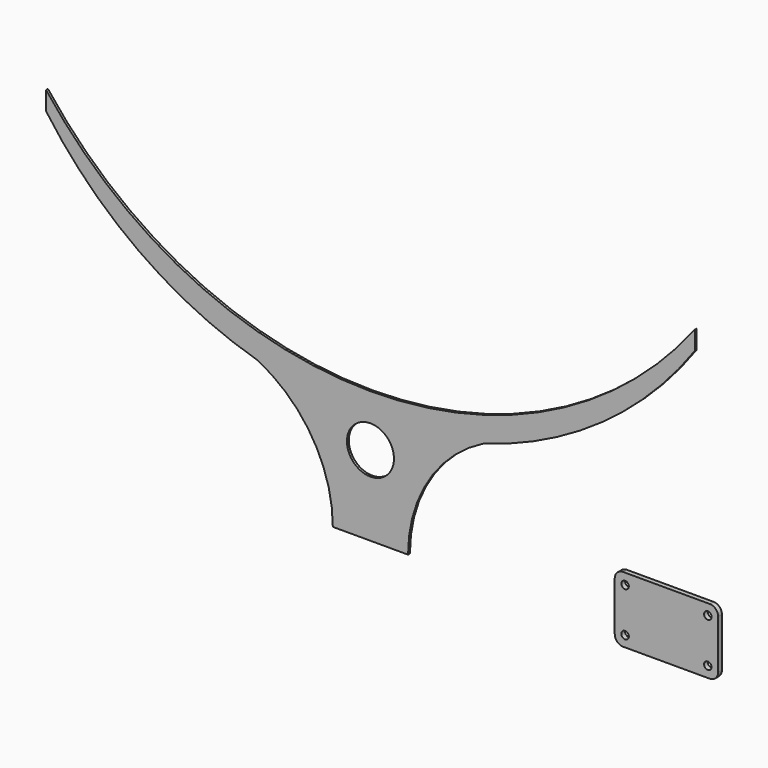
from build123d import *

# Parameters (mm, degrees)
F0_W     = 101.6
F0_H     = 25.4
F1_DEPTH = 6.35
F2_W     = 279.4
F2_H     = 177.8
F2_R     = 10.16
F3_DEPTH = 12.7
F4_R     = 22.688779


with BuildPart() as f1:
    # F0 (on Front) → F1 (new body)
    with BuildSketch(Plane.XZ):
        with BuildLine():
            ThreePointArc((0, -431.8), (-488.454944, -317.989446), (-876.3, 0))
            Line((-876.3, 0), (-876.3, -50.8))
            ThreePointArc((-876.3, -50.8), (-624.897732, -302.301498), (-304.8, -457.2))
            Line((-304.8, -457.2), (-101.6, -457.2))
            Line((-101.6, -457.2), (-101.6, -431.8))
            Line((-101.6, -431.8), (0, -431.8))
        make_face()
        with BuildLine():
            Line((-101.6, -457.2), (-304.8, -457.2))
            ThreePointArc((-304.8, -457.2), (-156.469734, -593.542913), (-101.6, -787.4))
            Line((-101.6, -787.4), (-101.6, -457.2))
        make_face()
        with BuildLine():
            Line((0, -508), (0, -457.2))
            Line((0, -457.2), (-101.6, -457.2))
            Line((-101.6, -457.2), (-101.6, -787.4))
            Line((-101.6, -787.4), (0, -787.4))
            Line((0, -787.4), (0, -635))
            ThreePointArc((0, -635), (-63.5, -571.5), (0, -508))
        make_face()
        with BuildLine():
            Line((101.6, -457.2), (0, -457.2))
            Line((0, -457.2), (0, -508))
            ThreePointArc((0, -508), (44.901281, -526.598719), (63.5, -571.5))
            ThreePointArc((63.5, -571.5), (44.901281, -616.401281), (0, -635))
            Line((0, -635), (0, -787.4))
            Line((0, -787.4), (101.6, -787.4))
            Line((101.6, -787.4), (101.6, -457.2))
        make_face()
        with Locations((-50.8, -444.5)):
            Rectangle(F0_W, F0_H)
        with Locations((50.8, -444.5)):
            Rectangle(F0_W, F0_H)
        with BuildLine():
            Line((876.3, -50.8), (876.3, 0))
            ThreePointArc((876.3, 0), (488.454944, -317.989446), (0, -431.8))
            Line((0, -431.8), (101.6, -431.8))
            Line((101.6, -431.8), (101.6, -457.2))
            Line((101.6, -457.2), (304.8, -457.2))
            ThreePointArc((304.8, -457.2), (624.897732, -302.301498), (876.3, -50.8))
        make_face()
        with BuildLine():
            ThreePointArc((101.6, -787.4), (156.469734, -593.542913), (304.8, -457.2))
            Line((304.8, -457.2), (101.6, -457.2))
            Line((101.6, -457.2), (101.6, -787.4))
        make_face()
    extrude(amount=F1_DEPTH)


with BuildPart() as f3:
    # F2 (on Front) → F3 (new body)
    with BuildSketch(Plane.XZ):
        with Locations((804.81764, -724.219126)):
            Rectangle(F2_W, F2_H)
        with Locations((693.05764, -783.909126)):
            Circle(F2_R, mode=Mode.SUBTRACT)
        with Locations((916.57764, -783.909126)):
            Circle(F2_R, mode=Mode.SUBTRACT)
        with Locations((693.05764, -664.529126)):
            Circle(F2_R, mode=Mode.SUBTRACT)
        with Locations((916.57764, -664.529126)):
            Circle(F2_R, mode=Mode.SUBTRACT)
    extrude(amount=F3_DEPTH)

    # F4
    f4_edges = [f3.edges().sort_by_distance(p)[0] for p in [
        (665.11764, -6.35, -635.319126),
        (665.11764, -6.35, -813.119126),
        (944.51764, -6.35, -635.319126),
        (944.51764, -6.35, -813.119126),
    ]]
    fillet(f4_edges, radius=F4_R)


solid = Compound([f1.part, f3.part])
